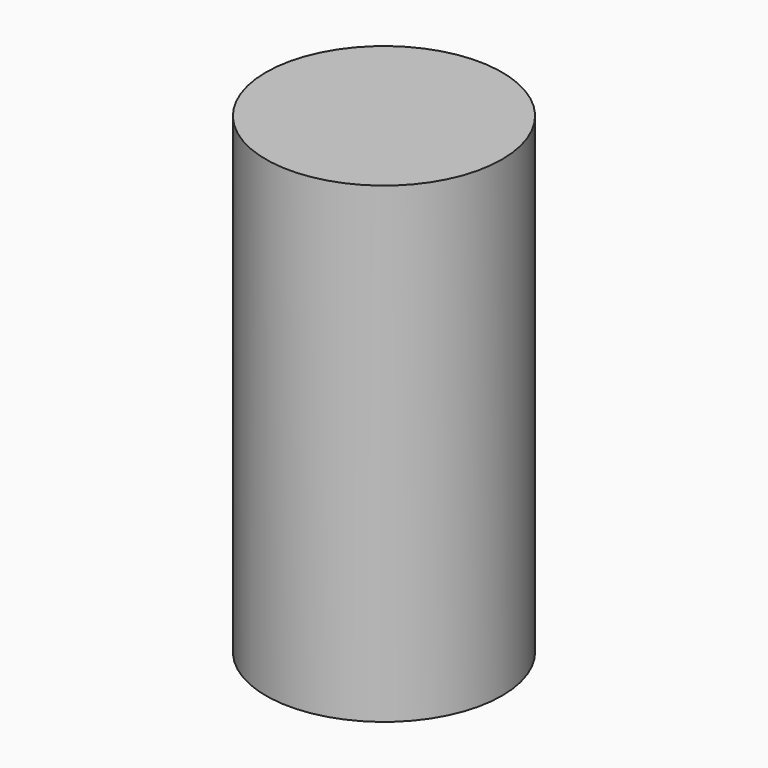
from build123d import *

# Parameters (mm, degrees)
SKETCH_R     = 1.5
PAD_DEPTH    = 6
POCKET_DEPTH = 2.5


with BuildPart() as part:
    # Sketch → Pad (new body)
    with BuildSketch(Plane.XY):
        Circle(SKETCH_R)
    extrude(amount=PAD_DEPTH)

    # Sketch001 (on Face2 of Pad) → Pocket (cut)
    with BuildSketch(Plane(origin=(0, 0, 0), x_dir=(1, 0, 0), z_dir=(0, 0, -1))):
        Polygon((0.866025, 0), (0.433013, 0.75), (-0.433013, 0.75), (-0.866025, 0), (-0.433013, -0.75), (0.433013, -0.75), align=None)
    extrude(amount=-POCKET_DEPTH, mode=Mode.SUBTRACT)


solid = part.part
